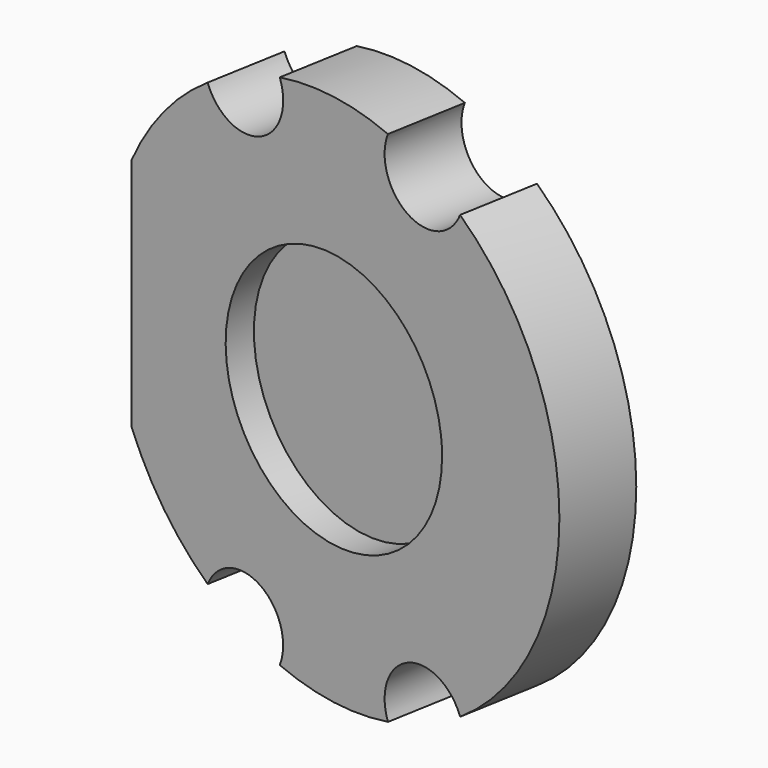
from build123d import *

# Parameters (mm, degrees)
CYLINDER064_R               = 4.8
CYLINDER064_DEPTH           = 18
CYLINDER064_ROLL_ANGLE      = -89.999776
CYLINDER064_PITCH_ANGLE     = 1.4e-05
CYLINDER064_PLACEMENT_ANGLE = -9.999925
PAD011_DEPTH                = 47
CYLINDER051_R               = 1.75
CYLINDER051_DEPTH           = 18
CYLINDER051_ROLL_ANGLE      = -89.999776
CYLINDER051_PITCH_ANGLE     = 1.4e-05
CYLINDER051_PLACEMENT_ANGLE = -9.999925
CYLINDER053_R               = 1.75
CYLINDER053_DEPTH           = 18
CYLINDER053_ROLL_ANGLE      = -89.999776
CYLINDER053_PITCH_ANGLE     = 1.4e-05
CYLINDER053_PLACEMENT_ANGLE = -9.999925
CYLINDER054_R               = 1.75
CYLINDER054_DEPTH           = 18
CYLINDER054_ROLL_ANGLE      = -89.999776
CYLINDER054_PITCH_ANGLE     = 1.4e-05
CYLINDER054_PLACEMENT_ANGLE = -9.999925
CYLINDER059_R               = 1.75
CYLINDER059_DEPTH           = 18
CYLINDER059_ROLL_ANGLE      = -89.999776
CYLINDER059_PITCH_ANGLE     = 1.4e-05
CYLINDER059_PLACEMENT_ANGLE = -9.999925
CYLINDER055_R               = 10
CYLINDER055_DEPTH           = 3
CYLINDER055_ROLL_ANGLE      = -89.999807
CYLINDER055_PITCH_ANGLE     = 8e-06
CYLINDER055_PLACEMENT_ANGLE = -9.999933


with BuildPart() as cylinder064:
    # Cylinder064 → Cylinder064 (new body)
    with BuildSketch(Plane.XY):
        Circle(CYLINDER064_R)
    extrude(amount=CYLINDER064_DEPTH)


with BuildPart() as cylinder064_1:
    # Cylinder064 roll: moved
    add(cylinder064.part.rotate(Axis((0, 0, 0), (1, 0, 0)), CYLINDER064_ROLL_ANGLE))


with BuildPart() as cylinder064_2:
    # Cylinder064 pitch: moved
    add(cylinder064_1.part.rotate(Axis((0, 0, 0), (0, 1, 0)), CYLINDER064_PITCH_ANGLE))


with BuildPart() as cylinder064_3:
    # Cylinder064 placement: moved
    add(cylinder064_2.part.moved(Location((35.146424, -29.285947, 16.499989))).rotate(Axis((35.146424, -29.285947, 16.499989), (0, 0, 1)), CYLINDER064_PLACEMENT_ANGLE))


with BuildPart() as winkel_p001:
    # Sketch011 → Pad011 (new body)
    with BuildSketch(Plane.XY):
        Polygon((29.25, 0), (25.25, 0), (25.25, -28), (44.946155, -31.472964), (45.640748, -27.533733), (29.25, -24.643601), align=None)
    extrude(amount=PAD011_DEPTH)


with BuildPart() as winkel_p001_1:
    # Body013 placement: moved
    add(winkel_p001.part.moved(Location((0, 0, -7))))


with BuildPart() as cylinder051:
    # Cylinder051 → Cylinder051 (new body)
    with BuildSketch(Plane.XY):
        Circle(CYLINDER051_R)
    extrude(amount=CYLINDER051_DEPTH)


with BuildPart() as cylinder051_1:
    # Cylinder051 roll: moved
    add(cylinder051.part.rotate(Axis((0, 0, 0), (1, 0, 0)), CYLINDER051_ROLL_ANGLE))


with BuildPart() as cylinder051_2:
    # Cylinder051 pitch: moved
    add(cylinder051_1.part.rotate(Axis((0, 0, 0), (0, 1, 0)), CYLINDER051_PITCH_ANGLE))


with BuildPart() as cylinder051_3:
    # Cylinder051 placement: moved
    add(cylinder051_2.part.moved(Location((32.058057, -23.765835, 25.500009))).rotate(Axis((32.058057, -23.765835, 25.500009), (0, 0, 1)), CYLINDER051_PLACEMENT_ANGLE))


with BuildPart() as cylinder053:
    # Cylinder053 → Cylinder053 (new body)
    with BuildSketch(Plane.XY):
        Circle(CYLINDER053_R)
    extrude(amount=CYLINDER053_DEPTH)


with BuildPart() as cylinder053_1:
    # Cylinder053 roll: moved
    add(cylinder053.part.rotate(Axis((0, 0, 0), (1, 0, 0)), CYLINDER053_ROLL_ANGLE))


with BuildPart() as cylinder053_2:
    # Cylinder053 pitch: moved
    add(cylinder053_1.part.rotate(Axis((0, 0, 0), (0, 1, 0)), CYLINDER053_PITCH_ANGLE))


with BuildPart() as cylinder053_3:
    # Cylinder053 placement: moved
    add(cylinder053_2.part.moved(Location((39.936521, -25.15501, 25.500007))).rotate(Axis((39.936521, -25.15501, 25.500007), (0, 0, 1)), CYLINDER053_PLACEMENT_ANGLE))


with BuildPart() as cylinder054:
    # Cylinder054 → Cylinder054 (new body)
    with BuildSketch(Plane.XY):
        Circle(CYLINDER054_R)
    extrude(amount=CYLINDER054_DEPTH)


with BuildPart() as cylinder054_1:
    # Cylinder054 roll: moved
    add(cylinder054.part.rotate(Axis((0, 0, 0), (1, 0, 0)), CYLINDER054_ROLL_ANGLE))


with BuildPart() as cylinder054_2:
    # Cylinder054 pitch: moved
    add(cylinder054_1.part.rotate(Axis((0, 0, 0), (0, 1, 0)), CYLINDER054_PITCH_ANGLE))


with BuildPart() as cylinder054_3:
    # Cylinder054 placement: moved
    add(cylinder054_2.part.moved(Location((32.055183, -23.766017, 7.500006))).rotate(Axis((32.055183, -23.766017, 7.500006), (0, 0, 1)), CYLINDER054_PLACEMENT_ANGLE))


with BuildPart() as cylinder059:
    # Cylinder059 → Cylinder059 (new body)
    with BuildSketch(Plane.XY):
        Circle(CYLINDER059_R)
    extrude(amount=CYLINDER059_DEPTH)


with BuildPart() as cylinder059_1:
    # Cylinder059 roll: moved
    add(cylinder059.part.rotate(Axis((0, 0, 0), (1, 0, 0)), CYLINDER059_ROLL_ANGLE))


with BuildPart() as cylinder059_2:
    # Cylinder059 pitch: moved
    add(cylinder059_1.part.rotate(Axis((0, 0, 0), (0, 1, 0)), CYLINDER059_PITCH_ANGLE))


with BuildPart() as cylinder059_3:
    # Cylinder059 placement: moved
    add(cylinder059_2.part.moved(Location((39.936529, -25.15494, 7.500007))).rotate(Axis((39.936529, -25.15494, 7.500007), (0, 0, 1)), CYLINDER059_PLACEMENT_ANGLE))


with BuildPart() as cut061:
    # Cylinder055 → Cylinder055 (new body)
    with BuildSketch(Plane.XY):
        Circle(CYLINDER055_R)
    extrude(amount=CYLINDER055_DEPTH)


with BuildPart() as cut061_1:
    # Cylinder055 roll: moved
    add(cut061.part.rotate(Axis((0, 0, 0), (1, 0, 0)), CYLINDER055_ROLL_ANGLE))


with BuildPart() as cut061_2:
    # Cylinder055 pitch: moved
    add(cut061_1.part.rotate(Axis((0, 0, 0), (0, 1, 0)), CYLINDER055_PITCH_ANGLE))


with BuildPart() as cut061_3:
    # Cylinder055 placement: moved
    add(cut061_2.part.moved(Location((38.083572, -12.645952, 16.50004))).rotate(Axis((38.083572, -12.645952, 16.50004), (0, 0, 1)), CYLINDER055_PLACEMENT_ANGLE))

    # Cut053: cut Cylinder059
    add(cylinder059_3.part, mode=Mode.SUBTRACT)

    # Cut054: cut Cylinder054
    add(cylinder054_3.part, mode=Mode.SUBTRACT)

    # Cut055: cut Cylinder053
    add(cylinder053_3.part, mode=Mode.SUBTRACT)

    # Cut056: cut Cylinder051
    add(cylinder051_3.part, mode=Mode.SUBTRACT)

    # Cut057: cut winkel_p001
    add(winkel_p001_1.part, mode=Mode.SUBTRACT)

    # Cut061: cut Cylinder064
    add(cylinder064_3.part, mode=Mode.SUBTRACT)


solid = cut061_3.part
